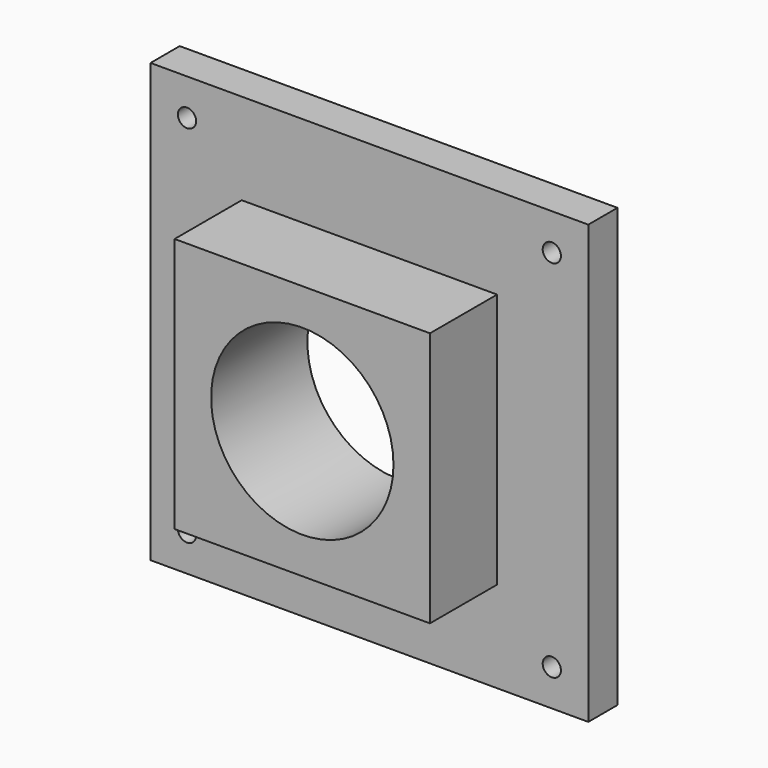
from build123d import *

# Parameters (mm, degrees)
F0_W     = 60
F0_H     = 60
F0_R     = 1.25
F0_W_2   = 40.5
F0_H_2   = 40.5
F0_R_2   = 12.5
F1_DEPTH = 16.5
F2_W     = 60
F2_H     = 60
F2_R     = 1.25
F2_W_2   = 35
F2_H_2   = 35
F3_DEPTH = 11.5


with BuildPart() as f1:
    # F0 (on Front) → F1 (new body)
    with BuildSketch(Plane.XZ):
        Rectangle(F0_W, F0_H)
        with Locations((-25, -25)):
            Circle(F0_R, mode=Mode.SUBTRACT)
        with Locations((25, -25)):
            Circle(F0_R, mode=Mode.SUBTRACT)
        with Locations((-25, 25)):
            Circle(F0_R, mode=Mode.SUBTRACT)
        Rectangle(F0_W_2, F0_H_2, mode=Mode.SUBTRACT)
        with Locations((25, 25)):
            Circle(F0_R, mode=Mode.SUBTRACT)
        Rectangle(F0_W_2, F0_H_2)
        Circle(F0_R_2, mode=Mode.SUBTRACT)
    extrude(amount=F1_DEPTH)

    # F2 (on face) → F3 (cut)
    with BuildSketch(Plane.XZ.offset(16.5)):
        Rectangle(F2_W, F2_H)
        with Locations((-25, -25)):
            Circle(F2_R, mode=Mode.SUBTRACT)
        with Locations((25, -25)):
            Circle(F2_R, mode=Mode.SUBTRACT)
        with Locations((-25, 25)):
            Circle(F2_R, mode=Mode.SUBTRACT)
        Rectangle(F2_W_2, F2_H_2, mode=Mode.SUBTRACT)
        with Locations((25, 25)):
            Circle(F2_R, mode=Mode.SUBTRACT)
    extrude(amount=-F3_DEPTH, mode=Mode.SUBTRACT)


solid = f1.part
